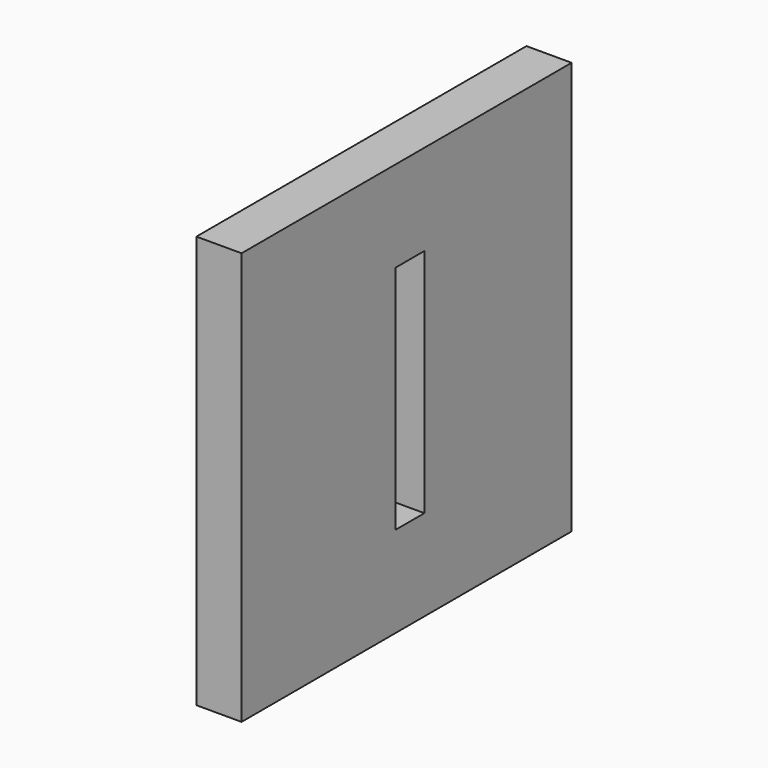
from build123d import *

# Parameters (mm, degrees)
F1_DEPTH = 3.81


with BuildPart() as f1:
    # F0 (on Right) → F1 (new body)
    with BuildSketch(Plane.YZ):
        Polygon((17.046658, 26.715095), (-17.751342, 26.715095), (-17.751342, 9.316095), (-1.524, 9.316095), (-1.524, 19.05), (0, 19.05), (1.524, 19.05), (1.524, 9.316095), (17.046658, 9.316095), align=None)
        Polygon((-1.524, 9.316095), (-17.751342, 9.316095), (-17.751342, -8.082905), (17.046658, -8.082905), (17.046658, 9.316095), (1.524, 9.316095), (1.524, -0.417809), (0, -0.417809), (-1.524, -0.417809), align=None)
    extrude(amount=F1_DEPTH)


solid = f1.part
